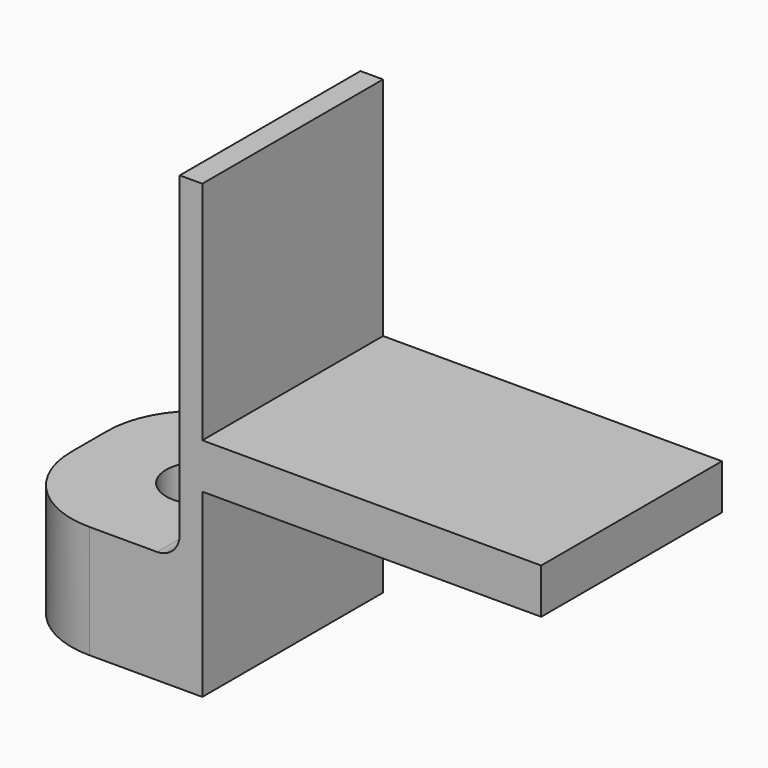
from build123d import *

# Parameters (mm, degrees)
PAD_DEPTH    = 10
SKETCH001_R  = 1.6
POCKET_DEPTH = 5
FILLET_R     = 4
FILLET001_R  = 1


with BuildPart() as part:
    # Sketch → Pad (new body)
    with BuildSketch(Plane.XZ):
        Polygon((0, 0), (0, 5), (8, 5), (8, 20), (9, 20), (9, 10), (24, 10), (24, 8), (9, 8), (9, 0), align=None)
    extrude(amount=PAD_DEPTH)

    # Sketch001 (on Face2 of Pad) → Pocket (cut)
    with BuildSketch(Plane(origin=(0, 0, 5), x_dir=(-1, 0, 0), z_dir=(0, 0, 1))):
        with Locations((-5, 5)):
            Circle(SKETCH001_R)
    extrude(amount=-POCKET_DEPTH, mode=Mode.SUBTRACT)

    # Fillet
    fillet_edges = [part.edges().sort_by_distance(p)[0] for p in [
        (0, 0, 2.5),
        (0, -10, 2.5),
    ]]
    fillet(fillet_edges, radius=FILLET_R)

    # Fillet001
    fillet001_edges = [part.edges().sort_by_distance(p)[0] for p in [
        (8, -5, 5),
    ]]
    fillet(fillet001_edges, radius=FILLET001_R)


solid = part.part
